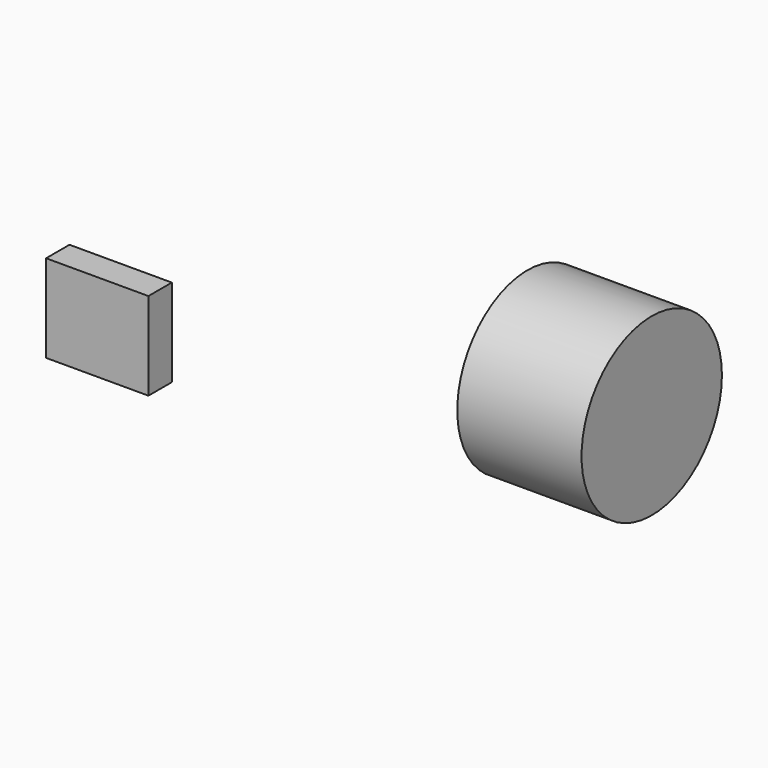
from build123d import *

# Parameters (mm, degrees)
F0_R     = 76.2
F1_DEPTH = 107.95
F2_W     = 88.9
F2_H     = 76.2
F3_DEPTH = 25.4


with BuildPart() as f1:
    # F0 (on Right) → F1 (new body)
    with BuildSketch(Plane.YZ):
        Circle(F0_R)
    extrude(amount=F1_DEPTH)


with BuildPart() as f3:
    # F2 (on Front) → F3 (new body)
    with BuildSketch(Plane.XZ):
        with Locations((-353.379428, -71.853062)):
            Rectangle(F2_W, F2_H)
    extrude(amount=F3_DEPTH)


solid = Compound([f1.part, f3.part])
